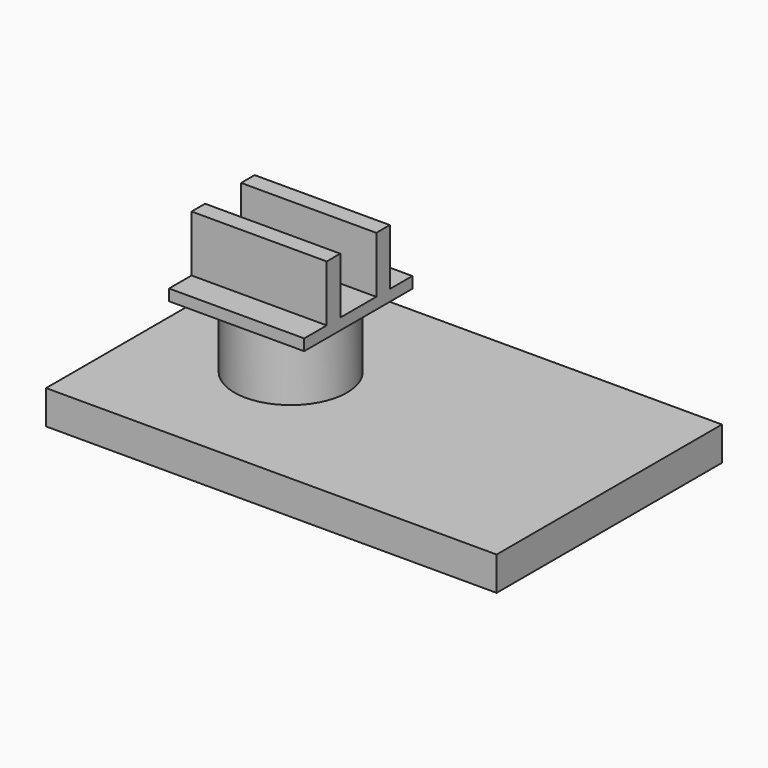
from build123d import *

# Parameters (mm, degrees)
F0_W     = 40
F0_H     = 25
F1_DEPTH = 3
F2_R     = 2.5
F3_DEPTH = 5
F4_R     = 5
F4_R_2   = 3
F5_DEPTH = 6
F6_W     = 12
F6_H     = 12
F6_R     = 5
F6_R_2   = 3
F7_DEPTH = 1
F8_W     = 12
F8_H     = 1.5
F9_DEPTH = 5


with BuildPart() as f1:
    # F0 (on Top) → F1 (new body)
    with BuildSketch(Plane.XY):
        with Locations((-28.603337, 0.225398)):
            Rectangle(F0_W, F0_H)
    extrude(amount=F1_DEPTH)

    # F2 (on face) → F3 (join)
    with BuildSketch(Plane.XY.offset(3)):
        with Locations((-36.887389, 0.225398)):
            Circle(F2_R)
    extrude(amount=F3_DEPTH)


with BuildPart() as f5:
    # F4 (on face) → F5 (new body)
    with BuildSketch(Plane.XY.offset(3)):
        with Locations((-36.887389, 0.225398)):
            Circle(F4_R)
        with Locations((-36.887389, 0.225398)):
            Circle(F4_R_2, mode=Mode.SUBTRACT)
    extrude(amount=F5_DEPTH)

    # F6 (on face) → F7 (join)
    with BuildSketch(Plane.XY.offset(9)):
        with Locations((-36.887389, 0.225398)):
            Rectangle(F6_W, F6_H)
        with Locations((-36.887389, 0.225398)):
            Circle(F6_R, mode=Mode.SUBTRACT)
        with Locations((-36.887389, 0.225398)):
            Circle(F6_R)
        with Locations((-36.887389, 0.225398)):
            Circle(F6_R_2, mode=Mode.SUBTRACT)
        with Locations((-36.887389, 0.225398)):
            Circle(F6_R_2)
    extrude(amount=F7_DEPTH)

    # F8 (on face) → F9 (join)
    with BuildSketch(Plane.XY.offset(10)):
        with Locations((-36.887389, 2.975398)):
            Rectangle(F8_W, F8_H)
        with Locations((-36.887389, -2.524602)):
            Rectangle(F8_W, F8_H)
    extrude(amount=F9_DEPTH)


solid = Compound([f1.part, f5.part])
